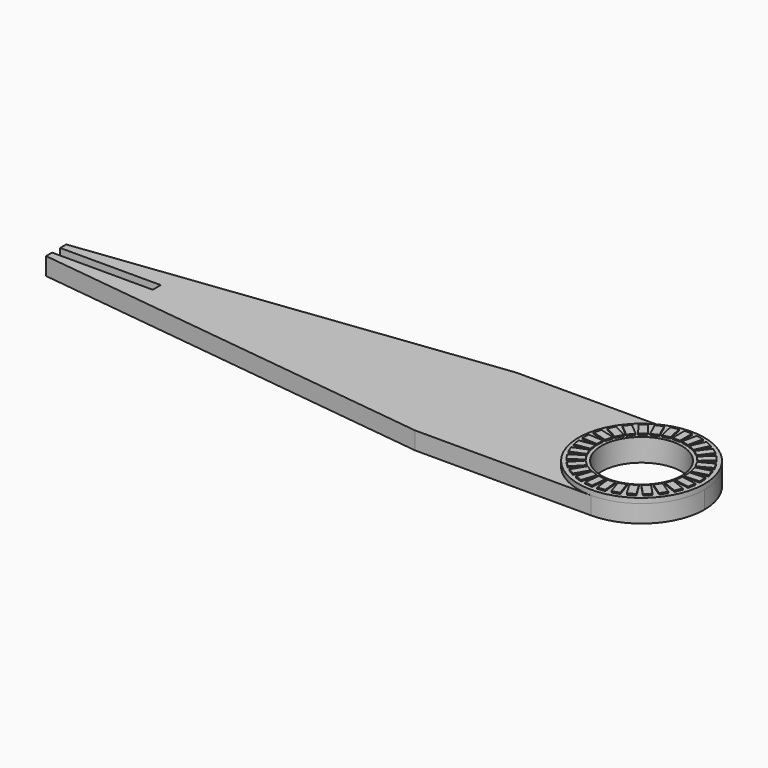
from build123d import *

# Parameters (mm, degrees)
F0_R     = 8
F1_DEPTH = 3.5
F2_R     = 12.5
F2_R_2   = 8
F3_DEPTH = 1
F4_W     = 20
F4_H     = 2
F5_DEPTH = 2
F6_W     = 1.5
F6_H     = 3
F7_DEPTH = 0.25


with BuildPart() as f1:
    # F0 (on Top) → F1 (new body)
    with BuildSketch(Plane.XY):
        with BuildLine():
            ThreePointArc((0, -12.5), (8.838835, -8.838835), (12.5, 0))
            ThreePointArc((12.5, 0), (8.838835, 8.838835), (0, 12.5))
            ThreePointArc((0, 12.5), (-12.5, 0), (0, -12.5))
        make_face()
        Circle(F0_R, mode=Mode.SUBTRACT)
        with BuildLine():
            ThreePointArc((0, -12.5), (-12.5, 0), (0, 12.5))
            Line((0, 12.5), (-35, 12.5))
            Line((-35, 12.5), (-116.388784, 2.506714))
            Line((-116.388784, 2.506714), (-116.388784, -2.506714))
            Line((-116.388784, -2.506714), (-35, -12.5))
            Line((-35, -12.5), (0, -12.5))
        make_face()
    extrude(amount=F1_DEPTH)

    # F2 (on face) → F3 (join)
    with BuildSketch(Plane.XY.offset(3.5)):
        Circle(F2_R)
        Circle(F2_R_2, mode=Mode.SUBTRACT)
    extrude(amount=F3_DEPTH)

    # F4 (on face) → F5 (cut)
    with BuildSketch(Plane.XY.offset(3.5)):
        with Locations((-106.388784, -0.006714)):
            Rectangle(F4_W, F4_H)
    extrude(amount=-F5_DEPTH, mode=Mode.SUBTRACT)

    # F6 (on face) → F7 (join)
    with BuildSketch(Plane.XY.offset(4.5)):
        with Locations((0, 10.153166)):
            Rectangle(F6_W, F6_H)
        Polygon((3.237552, 11.219494), (1.772621, 11.541949), (1.127709, 8.612088), (2.59264, 8.289632), align=None)
        Polygon((5.573719, 10.26121), (4.212356, 10.891044), (2.952689, 8.168318), (4.314052, 7.538484), align=None)
        Polygon((7.649265, 8.823124), (6.455126, 9.730885), (4.639603, 7.342606), (5.833743, 6.434845), align=None)
        Polygon((9.367141, 6.972478), (8.396061, 8.115721), (6.109575, 6.173563), (7.080655, 5.030319), align=None)
        Polygon((10.647019, 4.795807), (9.944406, 6.121075), (7.29387, 4.71585), (7.996483, 3.390582), align=None)
        Polygon((11.429054, 2.39489), (11.027762, 3.840215), (8.137112, 3.03763), (8.538404, 1.592305), align=None)
        Polygon((11.67668, -0.11801), (11.595471, 1.37979), (8.599871, 1.217373), (8.68108, -0.280427), align=None)
        Polygon((11.378317, -2.625392), (11.62099, -1.145153), (8.66051, -0.659807), (8.417837, -2.140046), align=None)
        Polygon((10.547916, -5.010014), (11.103124, -3.616549), (8.316193, -2.506134), (7.760986, -3.899599), align=None)
        Polygon((9.224307, -7.160373), (10.066088, -5.918839), (7.583021, -4.235278), (6.74124, -5.476812), align=None)
        Polygon((7.469379, -8.975921), (8.558373, -7.944371), (6.495274, -5.766385), (5.406281, -6.797934), align=None)
        Polygon((5.365192, -10.371764), (6.650478, -9.598434), (5.103816, -7.027862), (3.81853, -7.801193), align=None)
        Polygon((3.010134, -11.282636), (4.431614, -10.803684), (3.473709, -7.960724), (2.052229, -8.439676), align=None)
        Polygon((0.514325, -11.665944), (2.005532, -11.503765), (1.681175, -8.521352), (0.189968, -8.68353), align=None)
        Polygon((-2.005532, -11.503765), (-0.514325, -11.665944), (-0.189968, -8.68353), (-1.681175, -8.521352), align=None)
        Polygon((-4.431614, -10.803684), (-3.010134, -11.282636), (-2.052229, -8.439676), (-3.473709, -7.960724), align=None)
        Polygon((-6.650478, -9.598434), (-5.365192, -10.371764), (-3.81853, -7.801193), (-5.103816, -7.027862), align=None)
        Polygon((-8.558373, -7.944371), (-7.469379, -8.975921), (-5.406281, -6.797934), (-6.495274, -5.766385), align=None)
        Polygon((-10.066088, -5.918839), (-9.224307, -7.160373), (-6.74124, -5.476812), (-7.583021, -4.235278), align=None)
        Polygon((-11.103124, -3.616549), (-10.547916, -5.010014), (-7.760986, -3.899599), (-8.316193, -2.506134), align=None)
        Polygon((-11.62099, -1.145153), (-11.378317, -2.625392), (-8.417837, -2.140046), (-8.66051, -0.659807), align=None)
        Polygon((-11.595471, 1.37979), (-11.67668, -0.11801), (-8.68108, -0.280427), (-8.599871, 1.217373), align=None)
        Polygon((-11.027762, 3.840215), (-11.429054, 2.39489), (-8.538404, 1.592305), (-8.137112, 3.03763), align=None)
        Polygon((-9.944406, 6.121075), (-10.647019, 4.795807), (-7.996483, 3.390582), (-7.29387, 4.71585), align=None)
        Polygon((-8.396061, 8.115721), (-9.367141, 6.972478), (-7.080655, 5.030319), (-6.109575, 6.173563), align=None)
        Polygon((-6.455126, 9.730885), (-7.649265, 8.823124), (-5.833743, 6.434845), (-4.639603, 7.342606), align=None)
        Polygon((-4.212356, 10.891044), (-5.573719, 10.26121), (-4.314052, 7.538484), (-2.952689, 8.168318), align=None)
        Polygon((-1.772621, 11.541949), (-3.237552, 11.219494), (-2.59264, 8.289632), (-1.127709, 8.612088), align=None)
    extrude(amount=F7_DEPTH)


solid = f1.part
